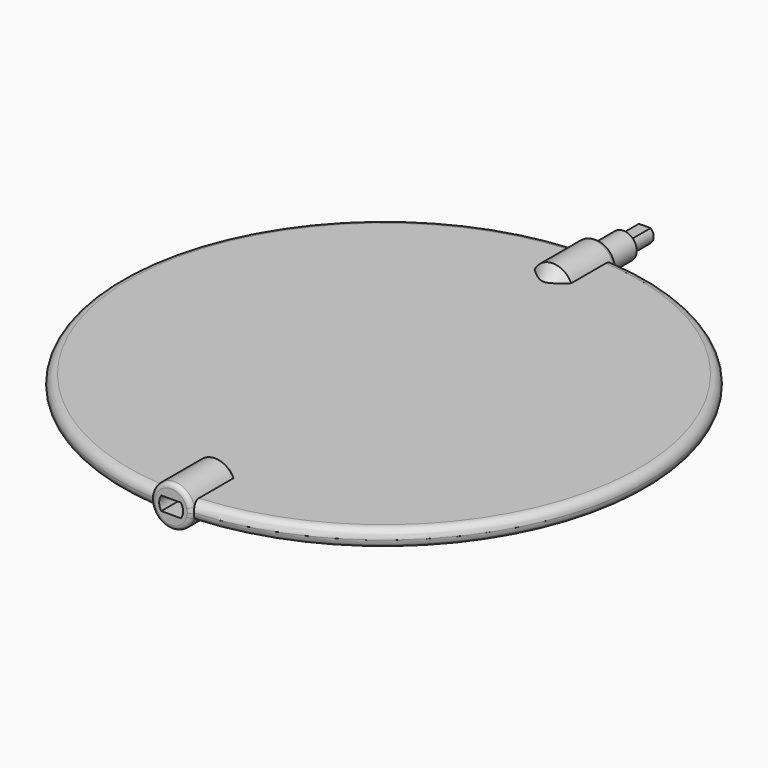
from build123d import *

# Parameters (mm, degrees)
SKETCH018_R     = 59.5
PAD003_DEPTH    = 2
FILLET_R        = 1.999
SKETCH019_R     = 4.6
PAD004_DEPTH    = 15
POCKET007_DEPTH = 10
SKETCH022_R     = 3
PAD005_DEPTH    = 7.5
PAD006_DEPTH    = 6
FILLET001_R     = 1
CHAMFER_SIZE    = 2.599


with BuildPart() as part:
    # Sketch018 (on DatumPlane) → Pad003 (new body, symmetric)
    with BuildSketch(Plane.XY.offset(16.5)):
        Circle(SKETCH018_R)
    extrude(amount=PAD003_DEPTH, both=True)

    # Fillet
    fillet_edges = [part.edges().sort_by_distance(p)[0] for p in [
        (59.5, 0, 16.5),
        (-59.5, 0, 14.5),
        (-59.5, 0, 18.5),
    ]]
    fillet(fillet_edges, radius=FILLET_R)

    # Sketch019 (on DatumPlane) → Pad004 (join)
    with BuildSketch(Plane.XZ.offset(60)):
        with Locations((0, 16.5)):
            Circle(SKETCH019_R)
    pad004 = extrude(amount=-PAD004_DEPTH)

    # Mirrored001: Pad004 across XZ
    add(pad004.mirror(Plane.XZ))

    # Sketch020 (on Face19 of Mirrored001) → Pocket007 (cut)
    with BuildSketch(Plane(origin=(0, -60, 16.5), x_dir=(1, 0, 0), z_dir=(0, -1, 0))):
        with BuildLine():
            Line((-2.210769, 1.55), (2.210769, 1.55))
            ThreePointArc((2.210769, -1.55), (2.7, 0), (2.210769, 1.55))
            Line((-2.210769, -1.55), (2.210769, -1.55))
            ThreePointArc((-2.210769, 1.55), (-2.7, 0), (-2.210769, -1.55))
        make_face()
    extrude(amount=-POCKET007_DEPTH, mode=Mode.SUBTRACT)

    # Sketch022 (on Face8 of Pocket007) → Pad005 (join)
    with BuildSketch(Plane(origin=(0, 60, 16.5), x_dir=(-1, 0, 0), z_dir=(0, 1, 0))):
        Circle(SKETCH022_R)
    extrude(amount=PAD005_DEPTH)

    # Sketch023 (on Face21 of Pad005) → Pad006 (join)
    with BuildSketch(Plane(origin=(0, 67.5, 16.5), x_dir=(-1, 0, 0), z_dir=(0, 1, 0))):
        with BuildLine():
            Line((-1.322876, 1.5), (1.322876, 1.5))
            ThreePointArc((1.322876, -1.5), (2, 0), (1.322876, 1.5))
            Line((-1.322876, -1.5), (1.322876, -1.5))
            ThreePointArc((-1.322876, 1.5), (-2, 0), (-1.322876, -1.5))
        make_face()
    extrude(amount=PAD006_DEPTH)

    # Fillet001
    fillet001_edges = [part.edges().sort_by_distance(p)[0] for p in [
        (-4.6, -60, 16.5),
        (-4.6, 60, 16.5),
    ]]
    fillet(fillet001_edges, radius=FILLET001_R)

    # Chamfer
    chamfer_edges = [part.edges().sort_by_distance(p)[0] for p in [
        (0, 45, 21.1),
        (0, -45, 21.1),
        (0, -45, 11.9),
        (0, 45, 11.9),
    ]]
    chamfer(chamfer_edges, length=CHAMFER_SIZE)


solid = part.part
